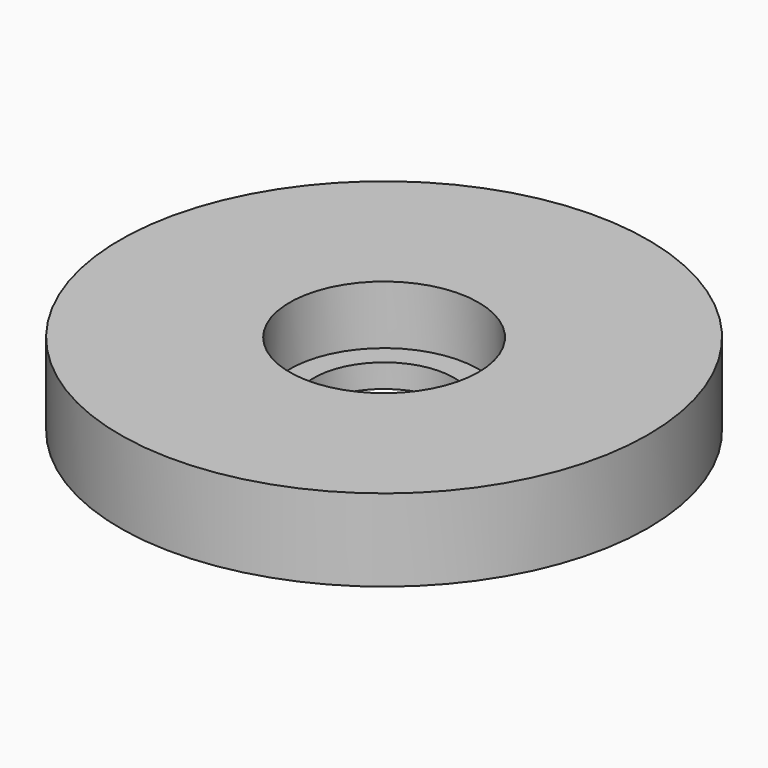
from build123d import *

# Parameters (mm, degrees)
F0_R     = 22.5
F1_DEPTH = 7
F2_R     = 6
F3_DEPTH = 7.001
F4_R     = 8.05
F5_DEPTH = 5


with BuildPart() as f1:
    # F0 (on Top) → F1 (new body)
    with BuildSketch(Plane.XY):
        Circle(F0_R)
    extrude(amount=F1_DEPTH)

    # F2 (on face) → F3 (cut, through all)
    with BuildSketch(Plane.XY.offset(7)):
        Circle(F2_R)
    extrude(amount=-F3_DEPTH, mode=Mode.SUBTRACT)

    # F4 (on face) → F5 (cut)
    with BuildSketch(Plane.XY.offset(7)):
        Circle(F4_R)
    extrude(amount=-F5_DEPTH, mode=Mode.SUBTRACT)


solid = f1.part
